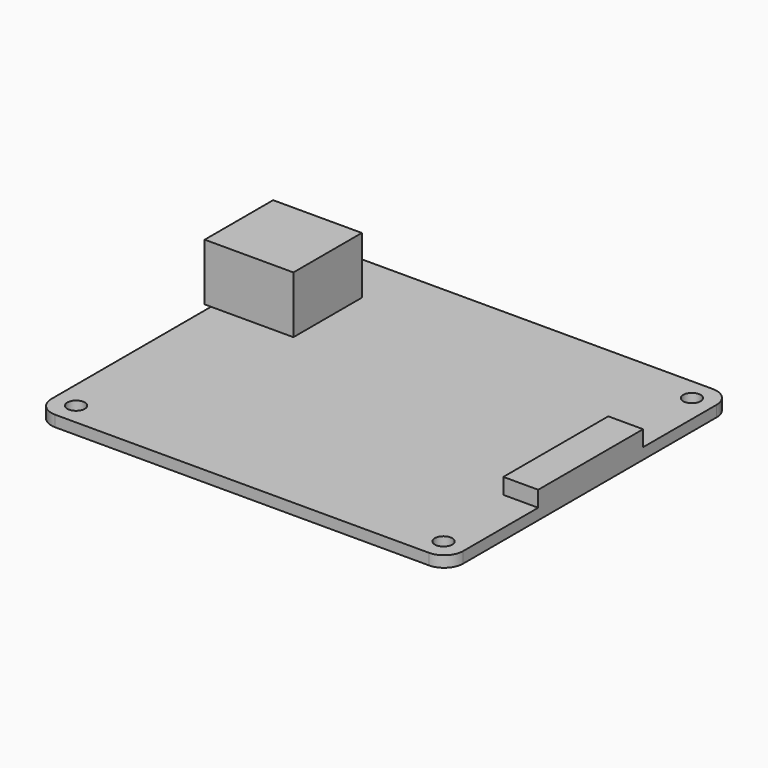
from build123d import *

# Parameters (mm, degrees)
SKETCH003_W  = 5.5
SKETCH003_H  = 20.7
PAD002_DEPTH = 2.5
SKETCH_W     = 14
SKETCH_H     = 13.5
PAD001_DEPTH = 9
SKETCH002_R  = 1.375
PAD_DEPTH    = 1.75


with BuildPart() as displayport:
    # Sketch003 (on Face1 of ShapeBinder001) → Pad002 (new body)
    with BuildSketch(Plane.XY.offset(1.75)):
        with Locations((52.9627, 4.312003)):
            Rectangle(SKETCH003_W, SKETCH003_H)
    extrude(amount=PAD002_DEPTH)


with BuildPart() as usb:
    # Sketch (on Face1 of ShapeBinder) → Pad001 (new body)
    with BuildSketch(Plane.XY.offset(1.75)):
        with Locations((-3.2873, 17.412003)):
            Rectangle(SKETCH_W, SKETCH_H)
    extrude(amount=PAD001_DEPTH)


with BuildPart() as fusion001:
    # Sketch002 → Pad (new body)
    with BuildSketch(Plane.XY):
        with BuildLine():
            Line((-6.2873, 32.162003), (52.7127, 32.162003))
            ThreePointArc((55.7127, 29.162003), (54.83402, 31.283323), (52.7127, 32.162003))
            Line((55.7127, 29.162003), (55.7127, -20.837997))
            ThreePointArc((52.7127, -23.837997), (54.83402, -22.959317), (55.7127, -20.837997))
            Line((52.7127, -23.837997), (-6.2873, -23.837997))
            ThreePointArc((-9.2873, -20.837997), (-8.40862, -22.959317), (-6.2873, -23.837997))
            Line((-9.2873, -20.837997), (-9.2873, 29.162003))
            ThreePointArc((-6.2873, 32.162003), (-8.40862, 31.283323), (-9.2873, 29.162003))
        make_face()
        with Locations((-5.7873, 28.662003)):
            Circle(SKETCH002_R, mode=Mode.SUBTRACT)
        with Locations((-5.7873, -20.337997)):
            Circle(SKETCH002_R, mode=Mode.SUBTRACT)
        with Locations((52.2127, -20.337997)):
            Circle(SKETCH002_R, mode=Mode.SUBTRACT)
        with Locations((52.2127, 28.662003)):
            Circle(SKETCH002_R, mode=Mode.SUBTRACT)
    extrude(amount=PAD_DEPTH)

    # Fusion: union usb
    add(usb.part)

    # Fusion001: union displayport
    add(displayport.part)


solid = fusion001.part
